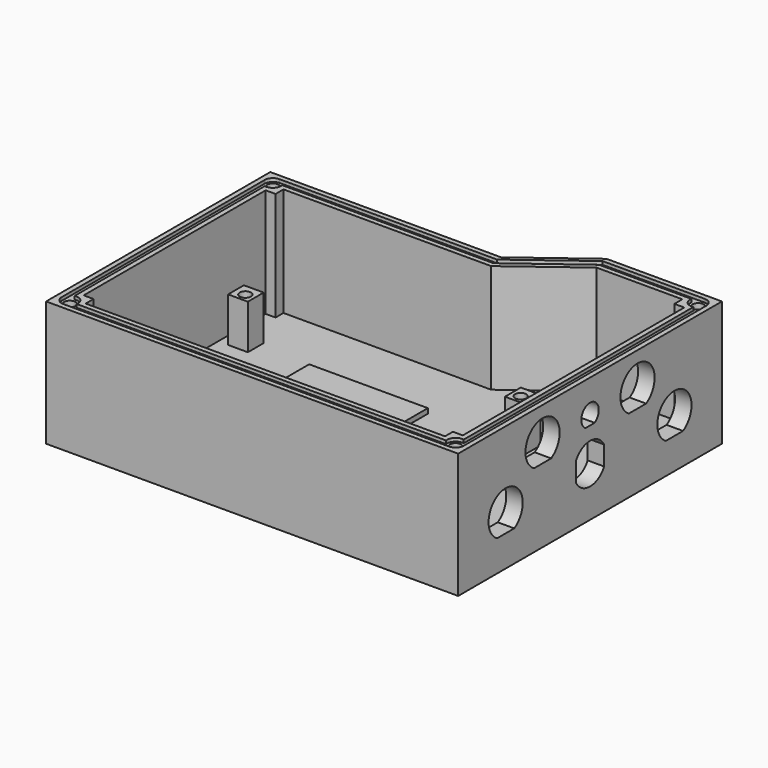
from build123d import *

# Parameters (mm, degrees)
PAD_DEPTH       = 38
POCKET_DEPTH    = 33
SKETCH015_W     = 6
SKETCH015_H     = 6
PAD006_DEPTH    = 15.5
SKETCH018_W     = 36
SKETCH018_H     = 36
PAD008_DEPTH    = 3.5
POCKET008_DEPTH = 8
SKETCH025_R     = 1.7
HOLE_DEPTH      = 12
HOLE_TIPS_R     = 1.7
SKETCH026_R     = 1.7
HOLE003_DEPTH   = 25
HOLE003_TIPS_R  = 1.7
POCKET009_DEPTH = 1


with BuildPart() as part:
    # Sketch → Pad (new body)
    with BuildSketch(Plane.XY):
        Polygon((-8, -2), (117, -2), (117, 98), (82, 98), (62, 83), (-8, 83), align=None)
    extrude(amount=PAD_DEPTH)

    # Sketch001 (on Face8 of Pad) → Pocket (cut)
    with BuildSketch(Plane.XY.offset(38)):
        Polygon((-3, 75), (-3, 6), (0, 6), (0, 3), (109, 3), (109, 6), (112, 6), (112, 90), (109, 90), (109, 93), (83, 93), (63, 78), (0, 78), (0, 75), align=None)
    extrude(amount=-POCKET_DEPTH, mode=Mode.SUBTRACT)

    # Sketch015 → Pad006 (join)
    with BuildSketch(Plane.XY.offset(3)):
        with Locations((3, 60)):
            Rectangle(SKETCH015_W, SKETCH015_H)
        with Locations((87, 60)):
            Rectangle(SKETCH015_W, SKETCH015_H)
        with Locations((3, 6)):
            Rectangle(SKETCH015_W, SKETCH015_H)
        with Locations((87, 6)):
            Rectangle(SKETCH015_W, SKETCH015_H)
    extrude(amount=PAD006_DEPTH)

    # Sketch018 → Pad008 (join)
    with BuildSketch(Plane.XY.offset(3)):
        with Locations((41, 41)):
            Rectangle(SKETCH018_W, SKETCH018_H)
    extrude(amount=PAD008_DEPTH)

    # Sketch014 → Pocket008 (cut)
    with BuildSketch(Plane.YZ.offset(117)):
        with BuildLine():
            ThreePointArc((19.25908, 9.405), (16, 21.475), (12.74092, 9.405))
            Line((12.74092, 9.405), (19.25908, 9.405))
        make_face()
        with BuildLine():
            ThreePointArc((83.25908, 9.405), (80, 21.475), (76.74092, 9.405))
            Line((76.74092, 9.405), (83.25908, 9.405))
        make_face()
        with BuildLine():
            ThreePointArc((69.25908, 22.405), (66, 34.475), (62.74092, 22.405))
            Line((62.74092, 22.405), (69.25908, 22.405))
        make_face()
        with BuildLine():
            ThreePointArc((33.25908, 22.405), (30, 34.475), (26.74092, 22.405))
            Line((26.74092, 22.405), (33.25908, 22.405))
        make_face()
        with BuildLine():
            ThreePointArc((49.746425, 25.2), (48, 31.3), (46.253575, 25.2))
            Line((49.746425, 25.2), (46.253575, 25.2))
        make_face()
        with BuildLine():
            ThreePointArc((42.65, 12.069556), (48, 8.9), (53.35, 12.069556))
            Line((53.35, 17.930444), (53.35, 12.069556))
            ThreePointArc((53.35, 17.930444), (48, 21.1), (42.65, 17.930444))
            Line((42.65, 17.930444), (42.65, 12.069556))
        make_face()
    extrude(amount=-POCKET008_DEPTH, mode=Mode.SUBTRACT)

    # Sketch025 (on Face41 of Pocket008) → Hole (cut)
    with BuildSketch(Plane.XY.offset(18.5)):
        with Locations((3.25, 59.5)):
            Circle(SKETCH025_R)
        with Locations((3.25, 6.5)):
            Circle(SKETCH025_R)
        with Locations((86.75, 6.5)):
            Circle(SKETCH025_R)
        with Locations((86.75, 59.5)):
            Circle(SKETCH025_R)
    extrude(amount=-HOLE_DEPTH, mode=Mode.SUBTRACT)

    # Hole tips → Hole tip 1 section 0
    with BuildSketch(Plane.XY.offset(6.5), mode=Mode.PRIVATE) as hole_tip_1_s0:
        with Locations((3.25, 59.5)):
            Circle(HOLE_TIPS_R)
    loft([hole_tip_1_s0.sketch, Vertex(3.25, 59.5, 5.478537)], mode=Mode.SUBTRACT)

    # Hole tips → Hole tip 2 section 0
    with BuildSketch(Plane.XY.offset(6.5), mode=Mode.PRIVATE) as hole_tip_2_s0:
        with Locations((3.25, 6.5)):
            Circle(HOLE_TIPS_R)
    loft([hole_tip_2_s0.sketch, Vertex(3.25, 6.5, 5.478537)], mode=Mode.SUBTRACT)

    # Hole tips → Hole tip 3 section 0
    with BuildSketch(Plane.XY.offset(6.5), mode=Mode.PRIVATE) as hole_tip_3_s0:
        with Locations((86.75, 6.5)):
            Circle(HOLE_TIPS_R)
    loft([hole_tip_3_s0.sketch, Vertex(86.75, 6.5, 5.478537)], mode=Mode.SUBTRACT)

    # Hole tips → Hole tip 4 section 0
    with BuildSketch(Plane.XY.offset(6.5), mode=Mode.PRIVATE) as hole_tip_4_s0:
        with Locations((86.75, 59.5)):
            Circle(HOLE_TIPS_R)
    loft([hole_tip_4_s0.sketch, Vertex(86.75, 59.5, 5.478537)], mode=Mode.SUBTRACT)

    # Sketch026 (on Face5 of Hole) → Hole003 (cut)
    with BuildSketch(Plane.XY.offset(38)):
        with Locations((-4, 79)):
            Circle(SKETCH026_R)
        with Locations((113, 94)):
            Circle(SKETCH026_R)
        with Locations((113, 2)):
            Circle(SKETCH026_R)
        with Locations((-4, 2)):
            Circle(SKETCH026_R)
    extrude(amount=-HOLE003_DEPTH, mode=Mode.SUBTRACT)

    # Hole003 tips → Hole003 tip 1 section 0
    with BuildSketch(Plane.XY.offset(13), mode=Mode.PRIVATE) as hole003_tip_1_s0:
        with Locations((-4, 79)):
            Circle(HOLE003_TIPS_R)
    loft([hole003_tip_1_s0.sketch, Vertex(-4, 79, 11.978537)], mode=Mode.SUBTRACT)

    # Hole003 tips → Hole003 tip 2 section 0
    with BuildSketch(Plane.XY.offset(13), mode=Mode.PRIVATE) as hole003_tip_2_s0:
        with Locations((113, 94)):
            Circle(HOLE003_TIPS_R)
    loft([hole003_tip_2_s0.sketch, Vertex(113, 94, 11.978537)], mode=Mode.SUBTRACT)

    # Hole003 tips → Hole003 tip 3 section 0
    with BuildSketch(Plane.XY.offset(13), mode=Mode.PRIVATE) as hole003_tip_3_s0:
        with Locations((113, 2)):
            Circle(HOLE003_TIPS_R)
    loft([hole003_tip_3_s0.sketch, Vertex(113, 2, 11.978537)], mode=Mode.SUBTRACT)

    # Hole003 tips → Hole003 tip 4 section 0
    with BuildSketch(Plane.XY.offset(13), mode=Mode.PRIVATE) as hole003_tip_4_s0:
        with Locations((-4, 2)):
            Circle(HOLE003_TIPS_R)
    loft([hole003_tip_4_s0.sketch, Vertex(-4, 2, 11.978537)], mode=Mode.SUBTRACT)

    # Sketch027 (on Face5 of Hole003) → Pocket009 (cut)
    with BuildSketch(Plane.XY.offset(38)):
        with BuildLine():
            ThreePointArc((-4, 81.5), (-5.767767, 80.767767), (-6.5, 79))
            Line((-6.5, 79), (-6.5, 2))
            ThreePointArc((-6.5, 2), (-5.767767, 0.232233), (-4, -0.5))
            Line((-4, -0.5), (113, -0.5))
            ThreePointArc((113, -0.5), (114.767767, 0.232233), (115.5, 2))
            Line((115.5, 2), (115.5, 94))
            ThreePointArc((115.5, 94), (114.767767, 95.767767), (113, 96.5))
            Line((113, 96.5), (82, 96.5))
            Line((82, 96.5), (62, 81.5))
            Line((62, 81.5), (-4, 81.5))
        make_face()
        with BuildLine():
            ThreePointArc((113.5, 4.44949), (111.232233, 3.767767), (110.55051, 1.5))
            Line((110.55051, 1.5), (-1.55051, 1.5))
            ThreePointArc((-1.55051, 1.5), (-2.232233, 3.767767), (-4.5, 4.44949))
            Line((-4.5, 4.44949), (-4.5, 76.55051))
            ThreePointArc((-4.5, 76.55051), (-2.232233, 77.232233), (-1.55051, 79.5))
            Line((-1.55051, 79.5), (62.44949, 79.5))
            Line((62.44949, 79.5), (82.55051, 94.5))
            Line((82.55051, 94.5), (110.55051, 94.5))
            ThreePointArc((110.55051, 94.5), (111.232233, 92.232233), (113.5, 91.55051))
            Line((113.5, 91.55051), (113.5, 4.44949))
        make_face(mode=Mode.SUBTRACT)
    extrude(amount=-POCKET009_DEPTH, mode=Mode.SUBTRACT)


with BuildPart() as part_1:
    # Body placement: moved
    add(part.part.moved(Location((0, 0, -2.5))))


solid = part_1.part
